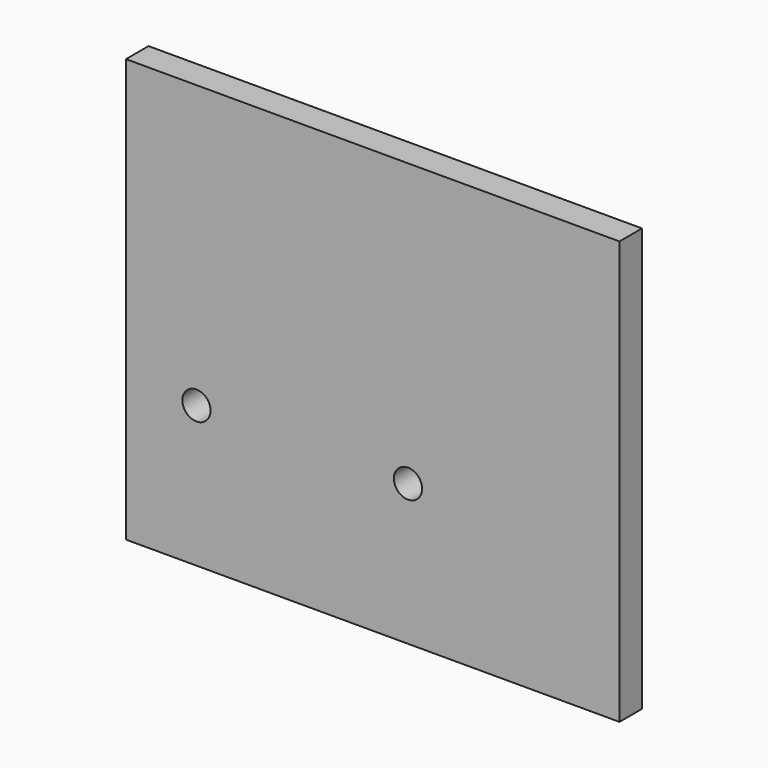
from build123d import *

# Parameters (mm, degrees)
F0_W     = 350
F0_H     = 300
F0_R     = 10
F1_DEPTH = 10


with BuildPart() as f1:
    # F0 (on Front) → F1 (new body, symmetric)
    with BuildSketch(Plane.XZ):
        Rectangle(F0_W, F0_H)
        with Locations((-125, -50)):
            Circle(F0_R, mode=Mode.SUBTRACT)
        with Locations((25, -50)):
            Circle(F0_R, mode=Mode.SUBTRACT)
    extrude(amount=F1_DEPTH, both=True)


solid = f1.part
